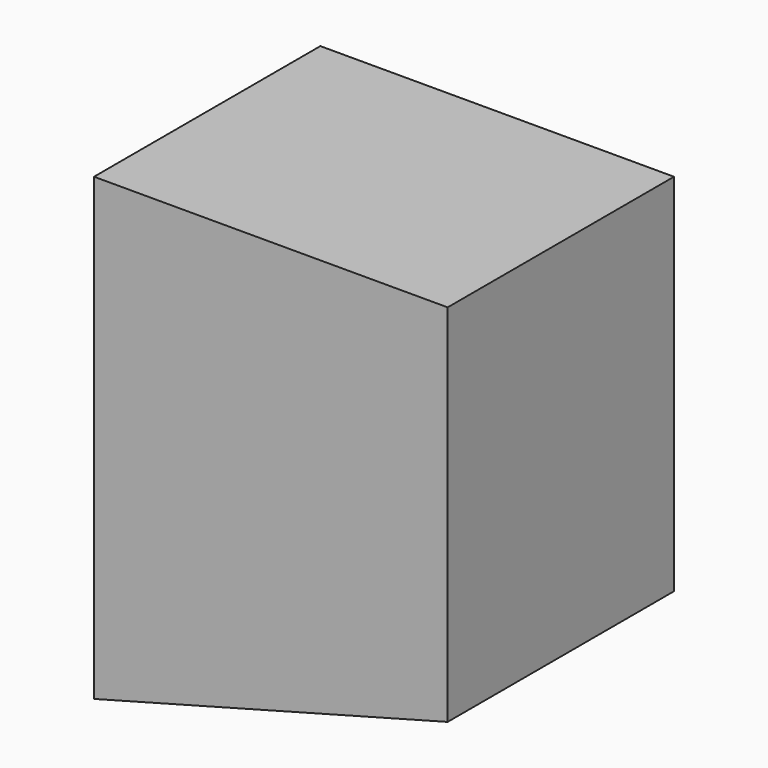
from build123d import *

# Parameters (mm, degrees)
F1_DEPTH = 101.6
F2_R     = 25.4
F2_R_2   = 12.7
F3_DEPTH = 76.2


with BuildPart() as f1:
    # F0 (on Front) → F1 (new body)
    with BuildSketch(Plane.XZ):
        Polygon((76.2, 54.8704525612), (-50.8, 54.8704525612), (-50.8, -110.2295474388), (76.2, -76.2), align=None)
    extrude(amount=F1_DEPTH)

    # F2 (on face) → F3 (cut)
    with BuildSketch(Plane(origin=(24.1544321158, 0, -90.1455678842), x_dir=(0.9659258263, 0, 0.2588190451), z_dir=(0.2588190451, 0, -0.9659258263))):
        with Locations((-11.8585007296, 50.8)):
            Circle(F2_R)
        with Locations((-50.2584632736, 76.2)):
            Circle(F2_R_2)
        with Locations((25.9415367264, 76.2)):
            Circle(F2_R_2)
    extrude(amount=-F3_DEPTH, mode=Mode.SUBTRACT)


solid = f1.part
